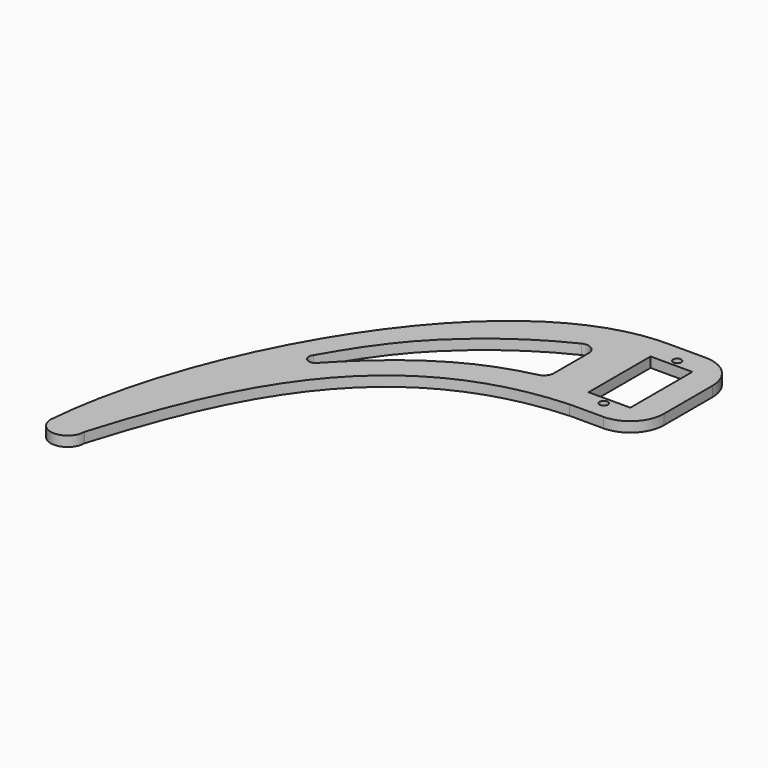
from build123d import *

# Parameters (mm, degrees)
SKETCH_R    = 1.2
SKETCH_W    = 12.4
SKETCH_H    = 23
PAD_DEPTH   = 3
FILLET_R    = 10
FILLET001_R = 3


with BuildPart() as part:
    # Sketch → Pad (new body)
    with BuildSketch(Plane.XY):
        with BuildLine():
            add(Edge.make_bspline(
                [(-95, -100), (-90.935824, -49.378152), (-52.268879, 20.279381), (-5.815751, 19)],
                knots=[0, 0, 0, 0, 1, 1, 1, 1], degree=3, weights=[6, 5.94, 6, 6]))
            Line((-5.815751, 19), (14.184249, 19))
            Line((14.184249, 19), (14.184249, -19))
            Line((14.184249, -19), (-5.815751, -19))
            add(Edge.make_bspline(
                [(-85, -100), (-74.069861, -64.186531), (-57.431784, -21.648657), (-5.815751, -19)],
                knots=[0, 0, 0, 0, 1, 1, 1, 1], degree=3))
            ThreePointArc((-85, -100), (-90, -105), (-95, -100))
        make_face()
        with Locations((0, 13.62)):
            Circle(SKETCH_R, mode=Mode.SUBTRACT)
        with Locations((0, -13.62)):
            Circle(SKETCH_R, mode=Mode.SUBTRACT)
        Rectangle(SKETCH_W, SKETCH_H, mode=Mode.SUBTRACT)
        with BuildLine():
            Line((-18.437941, 8.511872), (-18.437941, -11.5))
            add(Edge.make_bspline(
                [(-18.437941, -11.5), (-34.8974, -14.6095), (-49.1502, -22.8021), (-64.391878, -39.189094)],
                knots=[0, 0, 0, 0, 1, 1, 1, 1], degree=3))
            ThreePointArc((-64.391878, -39.189094), (-67.189094, -39.608122), (-67.608122, -36.810906))
            add(Edge.make_bspline(
                [(-18.437941, 8.511872), (-29.646872, 3.697302), (-46.497875, -7.962993), (-59.361809, -22.256252), (-67.608122, -36.810906)],
                knots=[0, 0, 0, 0, 0.5, 1, 1, 1, 1], degree=3))
        make_face(mode=Mode.SUBTRACT)
    extrude(amount=PAD_DEPTH)

    # Fillet
    fillet_edges = [part.edges().sort_by_distance(p)[0] for p in [
        (14.184249, -19, 1.5),
        (14.184249, 19, 1.5),
    ]]
    fillet(fillet_edges, radius=FILLET_R)

    # Fillet001
    fillet001_edges = [part.edges().sort_by_distance(p)[0] for p in [
        (-18.437941, 8.511872, 1.5),
        (-18.437941, -11.5, 1.5),
    ]]
    fillet(fillet001_edges, radius=FILLET001_R)


solid = part.part
